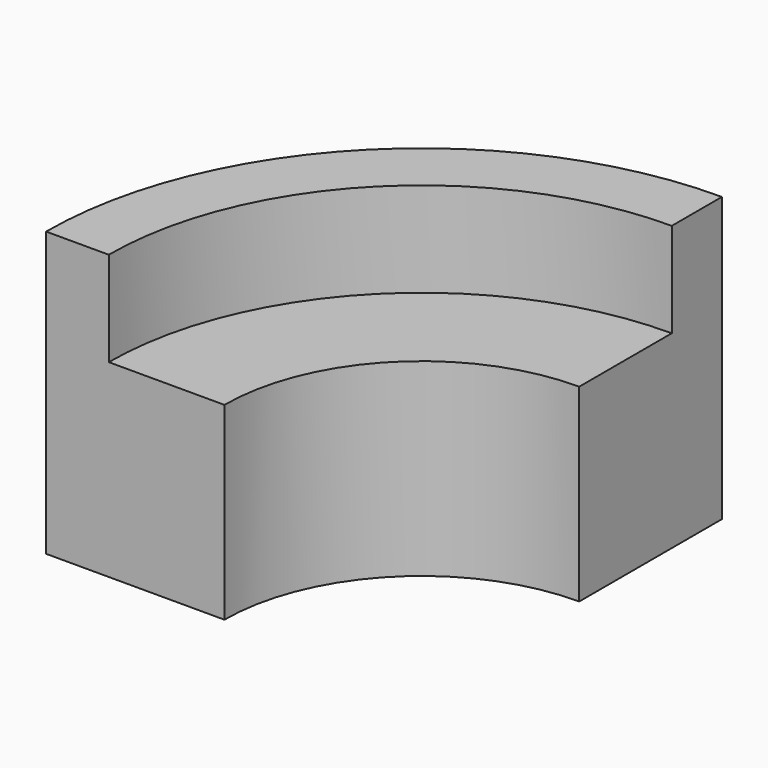
from build123d import *

# Parameters (mm, degrees)
F1_DEPTH = 76.2
F2_DEPTH = 50.8


with BuildPart() as f1:
    # F0 (on Top) → F1 (new body)
    with BuildSketch(Plane.XY):
        with BuildLine():
            Line((0, 84.0056133164), (0, 100.8445028668))
            ThreePointArc((0, 100.8445028668), (-71.3078318225, 71.3078318225), (-100.8445028668, 0))
            Line((-100.8445028668, 0), (-84.0056133164, 0))
            ThreePointArc((-84.0056133164, 0), (-59.4009388338, 59.4009388338), (0, 84.0056133164))
        make_face()
    extrude(amount=F1_DEPTH)

    # F0 (on Top) → F2 (join)
    with BuildSketch(Plane.XY):
        with BuildLine():
            Line((0, 52.9438169528), (0, 84.0056133164))
            ThreePointArc((0, 84.0056133164), (-59.4009388338, 59.4009388338), (-84.0056133164, 0))
            Line((-84.0056133164, 0), (-52.9438169528, 0))
            ThreePointArc((-52.9438169528, 0), (-37.4369319892, 37.4369319892), (0, 52.9438169528))
        make_face()
    extrude(amount=F2_DEPTH)


solid = f1.part
